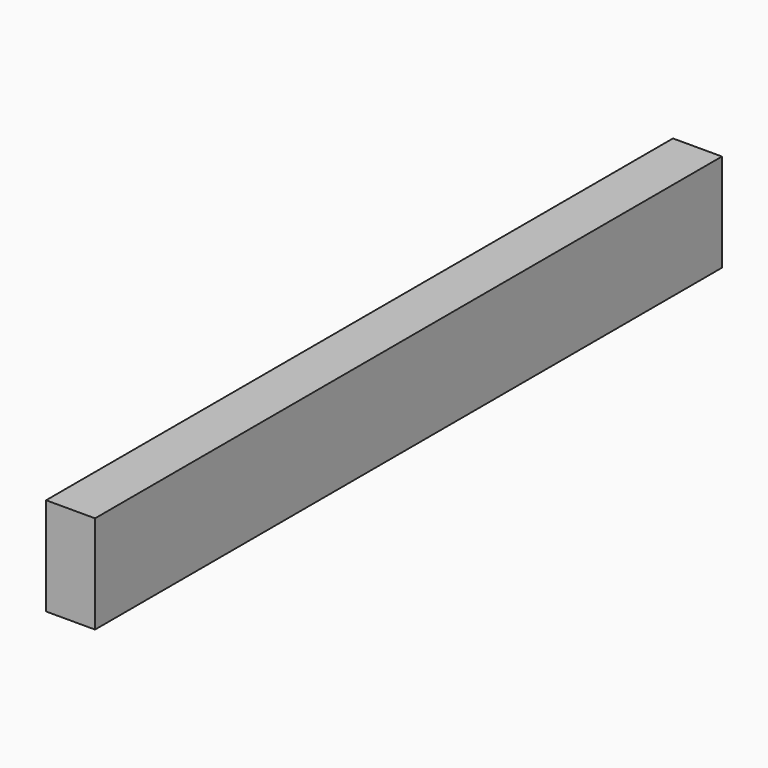
from build123d import *

# Parameters (mm, degrees)
F0_W     = 100
F0_H     = 200
F1_DEPTH = 1600
F2_R     = 10
F3_DEPTH = 50


with BuildPart() as f1:
    # F0 (on Front) → F1 (new body)
    with BuildSketch(Plane.XZ):
        with Locations((-50, 100)):
            Rectangle(F0_W, F0_H)
    extrude(amount=F1_DEPTH)

    # F2 (on face) → F3 (cut)
    with BuildSketch(Plane(origin=(-100, 0, 0), x_dir=(0, -1, 0), z_dir=(-1, 0, 0))):
        with Locations((150, 50)):
            Circle(F2_R)
        with Locations((400, 50)):
            Circle(F2_R)
        with Locations((600, 50)):
            Circle(F2_R)
        with Locations((1200, 50)):
            Circle(F2_R)
        with Locations((1450, 50)):
            Circle(F2_R)
    extrude(amount=-F3_DEPTH, mode=Mode.SUBTRACT)


solid = f1.part
